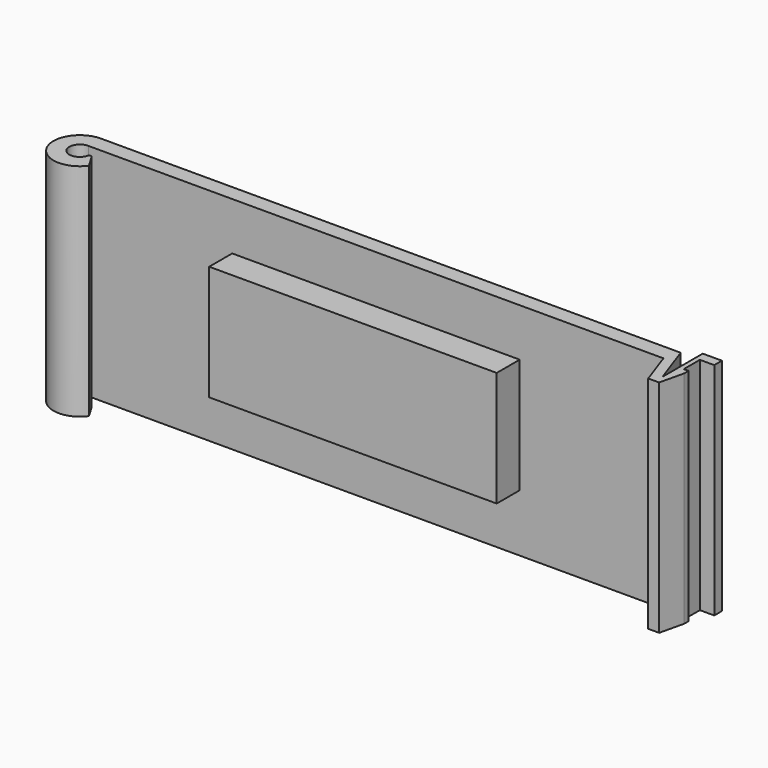
from build123d import *

# Parameters (mm, degrees)
F1_DEPTH = 23
F3_DEPTH = 25
F4_W     = 30
F4_H     = 12
F5_DEPTH = 3


with BuildPart() as f1:
    # F0 (on Top) → F1 (new body)
    with BuildSketch(Plane.XY):
        with BuildLine():
            Line((-101.79164, -46.223918), (-41.771353, -46.223918))
            Line((-41.771353, -46.223918), (-40.522749, -49.773918))
            Line((-40.522749, -49.773918), (-38.79164, -49.773918))
            Line((-38.79164, -49.773918), (-38.79164, -46.673918))
            Line((-38.79164, -46.673918), (-39.29164, -46.673918))
            Line((-39.29164, -46.673918), (-39.29164, -44.573918))
            Line((-39.29164, -44.573918), (-38.79164, -44.573918))
            Line((-38.79164, -44.573918), (-37.79164, -44.573918))
            Line((-37.79164, -44.573918), (-37.79164, -43.573918))
            Line((-37.79164, -43.573918), (-39.79164, -43.573918))
            Line((-39.79164, -43.573918), (-39.79164, -48.838682))
            Line((-39.79164, -48.838682), (-41.29164, -44.573918))
            Line((-41.29164, -44.573918), (-101.79164, -44.573918))
            ThreePointArc((-101.79164, -44.573918), (-104.241978, -48.572254), (-99.567025, -48.940578))
            ThreePointArc((-99.567025, -48.940578), (-99.561923, -48.926017), (-99.565678, -48.911052))
            Line((-99.565678, -48.911052), (-100.36651, -47.566828))
            ThreePointArc((-100.36651, -47.566828), (-100.565096, -47.47099), (-100.731146, -47.616072))
            ThreePointArc((-100.731146, -47.616072), (-102.666674, -47.990488), (-101.79164, -46.223918))
        make_face()
    extrude(amount=F1_DEPTH)

    # F2 (on face) → F3 (cut)
    with BuildSketch(Plane(origin=(0, 0, 0), x_dir=(1, 0, 0), z_dir=(0, 0, -1))):
        Polygon((-39.385125, 49.773918), (-38.79164, 47.239013), (-38.79164, 49.773918), align=None)
    extrude(amount=-F3_DEPTH, mode=Mode.SUBTRACT)

    # F4 (on face) → F5 (join)
    with BuildSketch(Plane.XZ.offset(46.223918)):
        with Locations((-71.771353, 12)):
            Rectangle(F4_W, F4_H)
    extrude(amount=F5_DEPTH)


solid = f1.part
